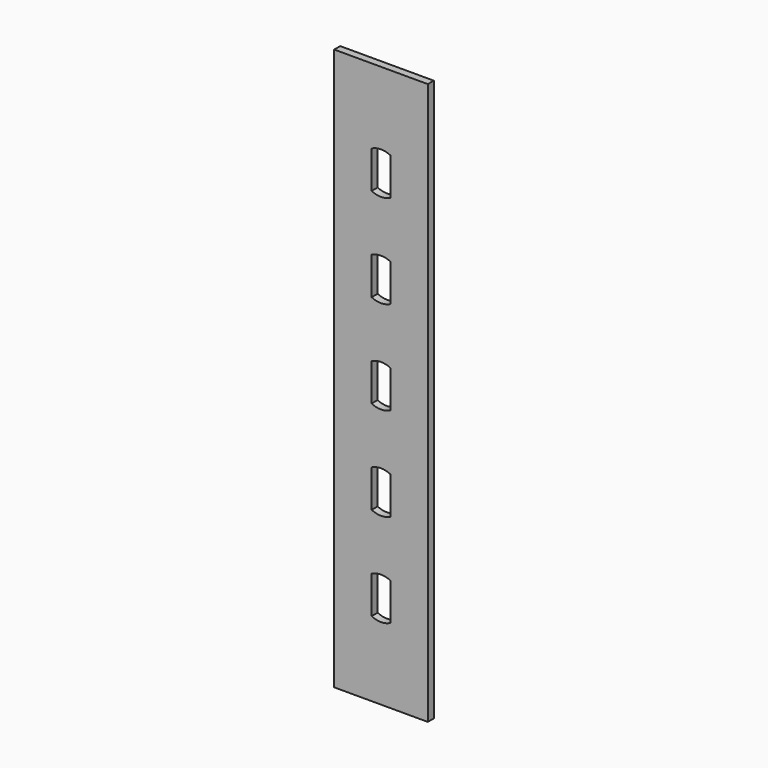
from build123d import *

# Parameters (mm, degrees)
F0_W     = 25.4
F0_H     = 152.4
F1_DEPTH = 2.032


with BuildPart() as f1:
    # F0 (on Front) → F1 (new body)
    with BuildSketch(Plane.XZ):
        with Locations((12.7, 76.2)):
            Rectangle(F0_W, F0_H)
        with BuildLine():
            ThreePointArc((10.16, 30.48), (12.7, 31.0796126628), (15.24, 30.48))
            Line((15.24, 30.48), (15.24, 20.32))
            ThreePointArc((15.24, 20.32), (12.7, 19.7203873372), (10.16, 20.32))
            Line((10.16, 20.32), (10.16, 30.48))
        make_face(mode=Mode.SUBTRACT)
        with BuildLine():
            ThreePointArc((10.16, 55.88), (12.7, 56.4796126628), (15.24, 55.88))
            Line((15.24, 55.88), (15.24, 45.72))
            ThreePointArc((15.24, 45.72), (12.7, 45.1203873372), (10.16, 45.72))
            Line((10.16, 45.72), (10.16, 55.88))
        make_face(mode=Mode.SUBTRACT)
        with BuildLine():
            ThreePointArc((10.16, 81.28), (12.7, 81.8796126628), (15.24, 81.28))
            Line((15.24, 81.28), (15.24, 71.12))
            ThreePointArc((15.24, 71.12), (12.7, 70.5203873372), (10.16, 71.12))
            Line((10.16, 71.12), (10.16, 81.28))
        make_face(mode=Mode.SUBTRACT)
        with BuildLine():
            ThreePointArc((10.16, 106.68), (12.7, 107.2796126628), (15.24, 106.68))
            Line((15.24, 106.68), (15.24, 96.52))
            ThreePointArc((15.24, 96.52), (12.7, 95.9203873372), (10.16, 96.52))
            Line((10.16, 96.52), (10.16, 106.68))
        make_face(mode=Mode.SUBTRACT)
        with BuildLine():
            ThreePointArc((10.16, 132.08), (12.7, 132.6796126628), (15.24, 132.08))
            Line((15.24, 132.08), (15.24, 121.92))
            ThreePointArc((15.24, 121.92), (12.7, 121.3203873372), (10.16, 121.92))
            Line((10.16, 121.92), (10.16, 132.08))
        make_face(mode=Mode.SUBTRACT)
    extrude(amount=F1_DEPTH)


solid = f1.part
